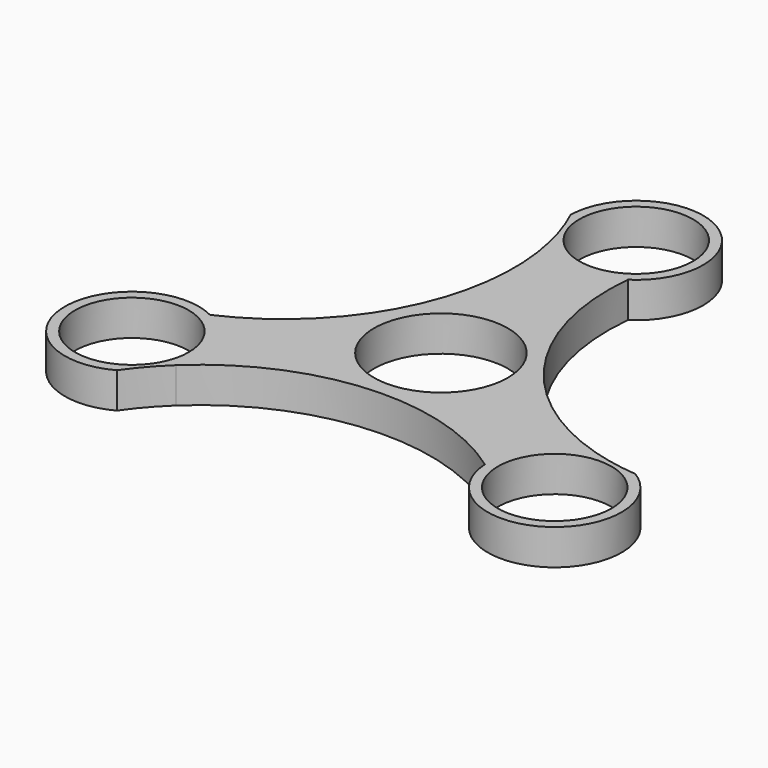
from build123d import *

# Parameters (mm, degrees)
F0_R     = 11.2
F0_R_2   = 13.2
F1_DEPTH = 7


with BuildPart() as f1:
    # F0 (on Top) → F1 (new body)
    with BuildSketch(Plane.XY):
        with BuildLine():
            ThreePointArc((39.402583, -11.042185), (14.671704, 7.216829), (7.204533, 37.037112))
            ThreePointArc((7.204533, 37.037112), (6.437069, 59.621682), (-13.195758, 48.432228))
            ThreePointArc((-13.195758, 48.432228), (-11.441826, 44.116861), (-10.138479, 39.64473))
            ThreePointArc((-10.138479, 39.64473), (-13.585809, 9.097654), (-35.677346, -12.279248))
            ThreePointArc((-35.677346, -12.279248), (-54.852426, -24.236175), (-35.345661, -35.643976))
            ThreePointArc((-35.345661, -35.643976), (-32.48541, -31.967342), (-29.264104, -28.602545))
            ThreePointArc((-29.264104, -28.602545), (-1.085895, -16.314482), (28.472814, -24.757864))
            ThreePointArc((28.472814, -24.757864), (48.415356, -35.385507), (48.541419, -12.788252))
            ThreePointArc((48.541419, -12.788252), (43.927235, -12.149519), (39.402583, -11.042185))
        make_face()
        with Locations((-41.653756, -24.048807)):
            Circle(F0_R, mode=Mode.SUBTRACT)
        with Locations((41.653756, -24.048807)):
            Circle(F0_R, mode=Mode.SUBTRACT)
        Circle(F0_R_2, mode=Mode.SUBTRACT)
        with Locations((0, 48.097614)):
            Circle(F0_R, mode=Mode.SUBTRACT)
    extrude(amount=F1_DEPTH)


solid = f1.part
